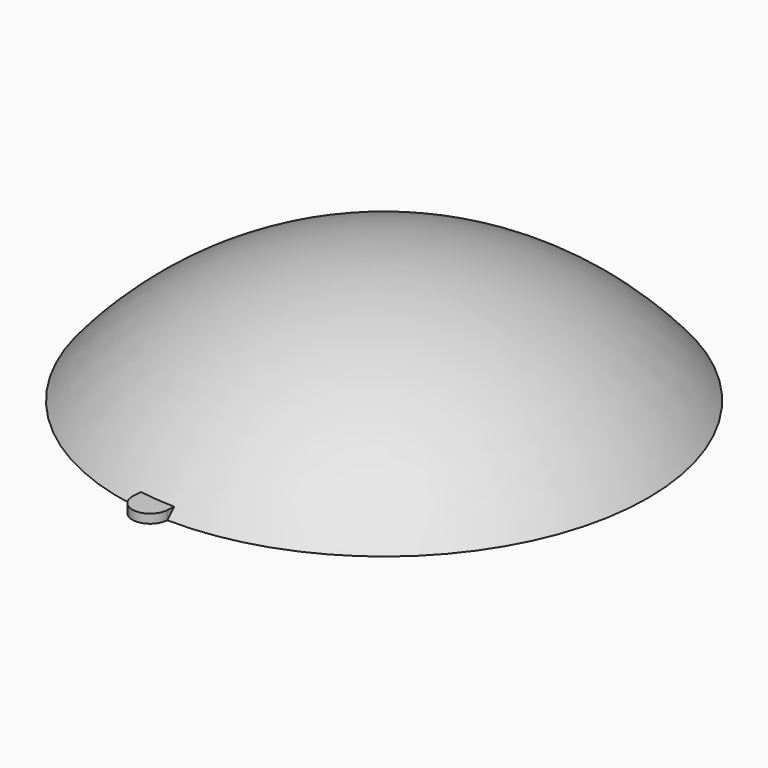
from build123d import *

# Parameters (mm, degrees)
F3_DEPTH = 1


with BuildPart() as f1:
    # F0 (on Front) → F1 (revolve)
    with BuildSketch(Plane.XZ):
        with BuildLine():
            Line((25.440897, 25), (29.5, 25))
            ThreePointArc((29.5, 25), (16.256359, 35.085336), (0, 38.668463))
            Line((0, 38.668463), (0, 35.668463))
            ThreePointArc((0, 35.668463), (13.793616, 32.893394), (25.440897, 25))
        make_face()
    revolve(axis=Axis((0, 0, 37.168463), (0, 0, 1)))

    # F2 (on face) → F3 (join)
    with BuildSketch(Plane(origin=(0, 0, 25), x_dir=(1, 0, 0), z_dir=(0, 0, -1))):
        with BuildLine():
            Line((-0.408325, 26.112619), (-0.625113, 29.510666))
            ThreePointArc((-0.625113, 29.510666), (-2.798754, 31.37542), (-4.608023, 29.155382))
            Line((-4.608023, 29.155382), (-4.384082, 25.858974))
            Line((-4.384082, 25.858974), (-0.408325, 26.112619))
        make_face()
    extrude(amount=-F3_DEPTH)


solid = f1.part
